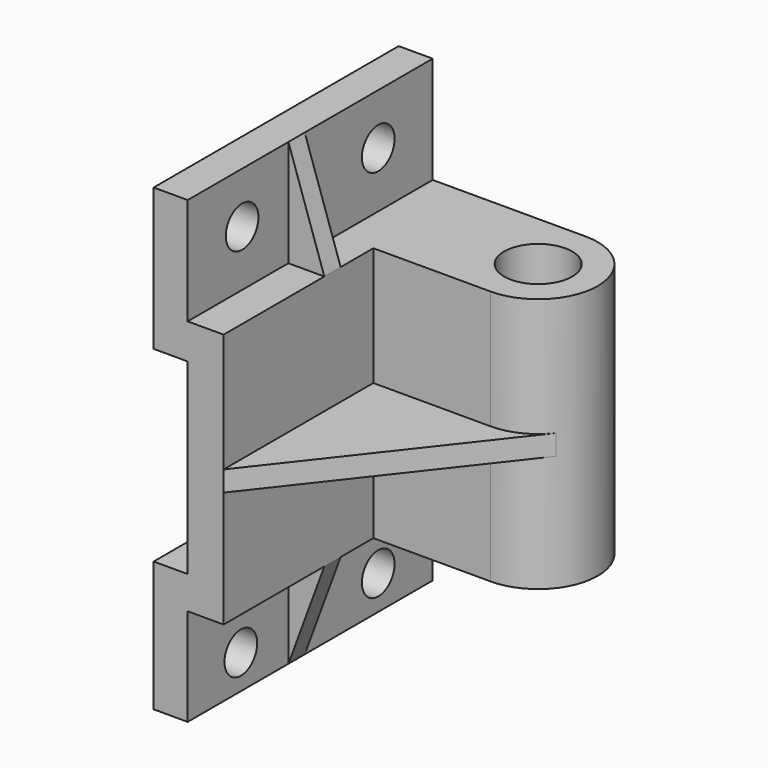
from build123d import *

# Parameters (mm, degrees)
F1_DEPTH  = 2286
F2_R      = 152.4
F3_DEPTH  = 254.001
F6_DEPTH  = 152.4
F7_R      = 152.4
F8_DEPTH  = 254.001
F10_DEPTH = 152.4
F13_DEPTH = 1905
F16_DEPTH = 76.2
F17_DEPTH = 76.2


with BuildPart() as f1:
    # F0 (on Front) → F1 (new body)
    with BuildSketch(Plane.XZ):
        Polygon((0, 698.0214019488), (0, 0), (0, -698.9785980512), (-254, -698.9785980512), (-254, -1670.4862043844), (0, -1670.4862043844), (0, -943.5077252053), (268.1027871695, -943.5077252053), (268.1027871695, 0), (268.1027871695, 961.4922747947), (0, 961.4922747947), (0, 1758.5137956156), (-254, 1758.5137956156), (-254, 698.0214019488), align=None)
    extrude(amount=F1_DEPTH)

    # F2 (on face) → F3 (cut, through all)
    with BuildSketch(Plane.YZ):
        with Locations((-1778, 1377.5137956156)):
            Circle(F2_R)
        with Locations((-508, 1377.5137956156)):
            Circle(F2_R)
    extrude(amount=-F3_DEPTH, mode=Mode.SUBTRACT)

    # F5 (on offset) → F6 (join)
    with BuildSketch(Plane.XZ.offset(1193.8)):
        Polygon((268.1027871695, 961.4922747947), (0, 1758.5137956156), (0, 961.4922747947), align=None)
    extrude(amount=F6_DEPTH)

    # F7 (on face) → F8 (cut, through all)
    with BuildSketch(Plane.YZ):
        with Locations((-1789.9394125572, -1416.4862043844)):
            Circle(F7_R)
        with Locations((-508, -1416.4862043844)):
            Circle(F7_R)
    extrude(amount=-F8_DEPTH, mode=Mode.SUBTRACT)

    # F9 (on offset) → F10 (join)
    with BuildSketch(Plane.XZ.offset(1193.8)):
        Polygon((0, -943.5077252053), (0, -1670.4862043844), (268.1027871695, -943.5077252053), align=None)
    extrude(amount=F10_DEPTH)

    # F12 (on offset) → F13 (join)
    with BuildSketch(Plane.XY.offset(961.4922747947)):
        with BuildLine():
            Line((268.1027871695, 0), (268.1027871695, -889))
            Line((268.1027871695, -889), (1143, -889))
            Line((1143, -889), (1143, -698.5))
            ThreePointArc((1143, -698.5), (889, -444.5), (1143, -190.5))
            Line((1143, -190.5), (1143, 0))
            Line((1143, 0), (268.1027871695, 0))
        make_face()
        with BuildLine():
            Line((1143, -698.5), (1143, -889))
            ThreePointArc((1143, -889), (1587.5, -444.5), (1143, 0))
            Line((1143, 0), (1143, -190.5))
            ThreePointArc((1143, -190.5), (1322.6051224214, -264.8948775786), (1397, -444.5))
            ThreePointArc((1397, -444.5), (1322.6051224214, -624.1051224214), (1143, -698.5))
        make_face()
    extrude(amount=-F13_DEPTH)

    # F15 (on offset) → F16 (join)
    with BuildSketch(Plane.XY.offset(-0.4785980512)):
        with BuildLine():
            Line((268.1027871695, -889), (268.1027871695, -1193.8))
            Line((268.1027871695, -1193.8), (268.1027871695, -1346.2))
            Line((268.1027871695, -1346.2), (268.1027871695, -2286))
            Line((268.1027871695, -2286), (1493.2449483987, -718.1945854803))
            ThreePointArc((1493.2449483987, -718.1945854803), (1337.8371201209, -844.0231490452), (1143, -889))
            Line((1143, -889), (268.1027871695, -889))
        make_face()
    extrude(amount=-F16_DEPTH)

    # F15 (on offset) → F17 (join)
    with BuildSketch(Plane.XY.offset(-0.4785980512)):
        with BuildLine():
            Line((268.1027871695, -889), (268.1027871695, -1193.8))
            Line((268.1027871695, -1193.8), (268.1027871695, -1346.2))
            Line((268.1027871695, -1346.2), (268.1027871695, -2286))
            Line((268.1027871695, -2286), (1493.2449483987, -718.1945854803))
            ThreePointArc((1493.2449483987, -718.1945854803), (1337.8371201209, -844.0231490452), (1143, -889))
            Line((1143, -889), (268.1027871695, -889))
        make_face()
    extrude(amount=F17_DEPTH)


solid = f1.part
